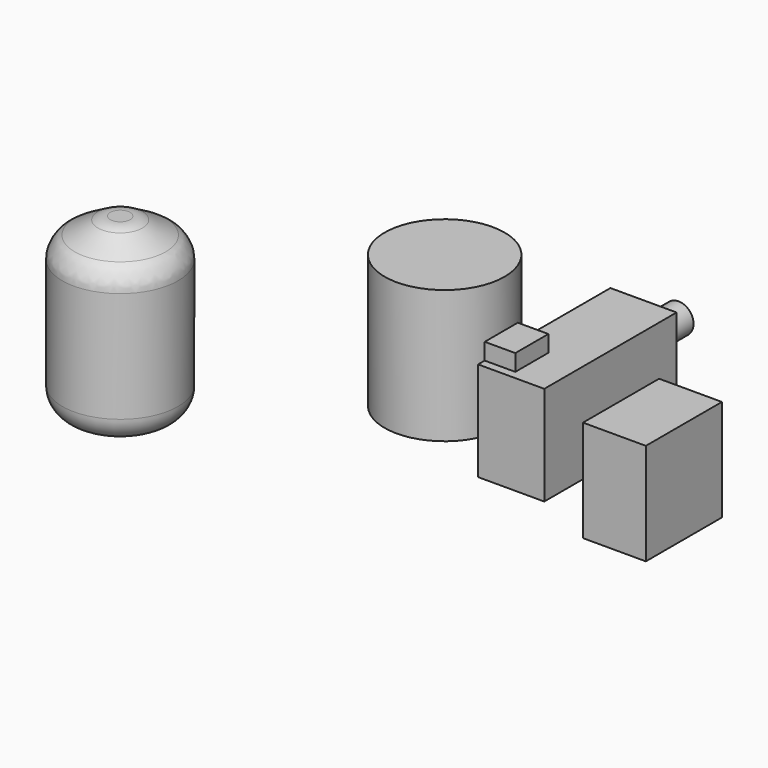
from build123d import *

# Parameters (mm, degrees)
F0_W      = 760
F0_H      = 1150
F1_DEPTH  = 1230
F2_R      = 725
F3_DEPTH  = 1610
F4_W      = 800
F4_H      = 2000
F5_DEPTH  = 1200
F6_W      = 370
F6_H      = 500
F7_DEPTH  = 200
F8_R      = 700
F9_DEPTH  = 2100
F10_R     = 300
F11_SIZE2 = 288.6751345948
F11_SIZE  = 500
F12_R     = 300
F13_R     = 180.7034135945
F14_DEPTH = 400


with BuildPart() as f1:
    # F0 (on Top) → F1 (new body)
    with BuildSketch(Plane.XY):
        with Locations((-31.4733404666, -119.2426998605)):
            Rectangle(F0_W, F0_H)
    extrude(amount=F1_DEPTH)


with BuildPart() as f3:
    # F2 (on Top) → F3 (new body)
    with BuildSketch(Plane.XY):
        with Locations((-3121.7975616455, 602.2063493729)):
            Circle(F2_R)
    extrude(amount=F3_DEPTH)


with BuildPart() as f5:
    # F4 (on Top) → F5 (new body)
    with BuildSketch(Plane.XY):
        with Locations((-1564.8182034492, 661.7751377383)):
            Rectangle(F4_W, F4_H)
    extrude(amount=F5_DEPTH)

    # F6 (on face) → F7 (join)
    with BuildSketch(Plane.XY.offset(1200)):
        with Locations((-1779.8182034492, 11.7751377383)):
            Rectangle(F6_W, F6_H)
    extrude(amount=F7_DEPTH)

    # F13 (on face) → F14 (join)
    with BuildSketch(Plane(origin=(0, 1661.7751377383, 0), x_dir=(-1, 0, 0), z_dir=(0, 1, 0))):
        with Locations((1460.068821907, 879.3671131134)):
            Circle(F13_R)
    extrude(amount=F14_DEPTH)


with BuildPart() as f9:
    # F8 (on Top) → F9 (new body)
    with BuildSketch(Plane.XY):
        with Locations((-5419.2771911621, -1430.2269220352)):
            Circle(F8_R)
    extrude(amount=F9_DEPTH)

    # F10
    f10_edges = [f9.edges().sort_by_distance(p)[0] for p in [
        (-6119.277191, -1430.226922, 0),
    ]]
    fillet(f10_edges, radius=F10_R)

    # F11
    f11_edges = [f9.edges().sort_by_distance(p)[0] for p in [
        (-6119.277191, -1430.226922, 2100),
    ]]
    f11_side = f9.faces().sort_by_distance((-5419.277191, -1430.226922, 2100))[0]
    chamfer(f11_edges, length=F11_SIZE, length2=F11_SIZE2, reference=f11_side)

    # F12
    f12_edges = [f9.edges().sort_by_distance(p)[0] for p in [
        (-6119.277191, -1430.226922, 1811.324865),
        (-5619.277191, -1430.226922, 2100),
    ]]
    fillet(f12_edges, radius=F12_R)


solid = Compound([f1.part, f3.part, f5.part, f9.part])
